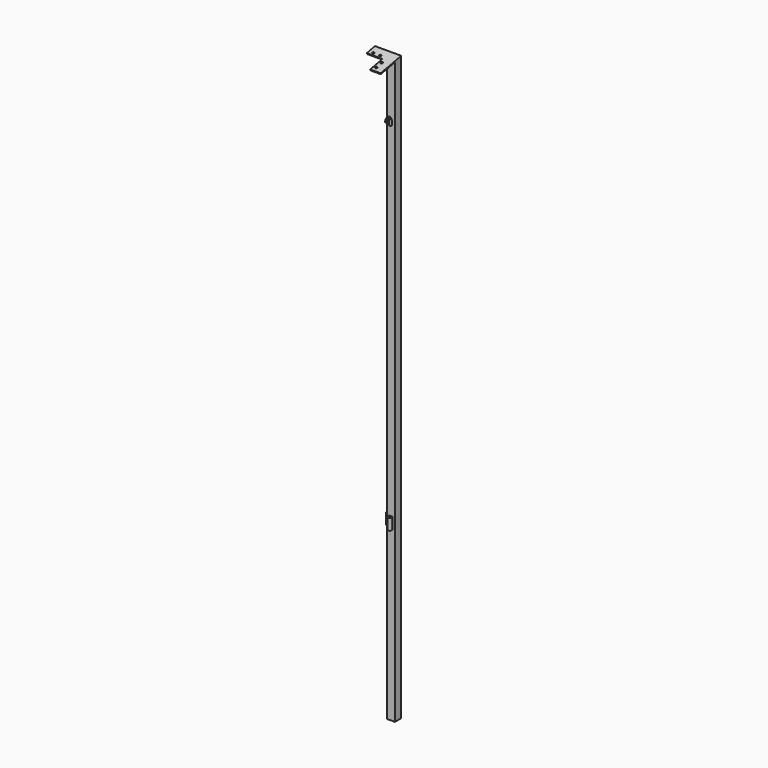
from build123d import *

# Parameters (mm, degrees)
F0_W      = 45
F0_H      = 45
F1_DEPTH  = 3330
F4_DEPTH  = 5
F7_W      = 45
F7_H      = 45.842251273
F8_DEPTH  = 25
F9_W      = 60
F9_H      = 60
F9_W_2    = 90
F9_H_2    = 90
F10_DEPTH = 5
F11_R     = 6
F12_DEPTH = 25
F13_W     = 150
F13_H     = 4.7702248844
F14_DEPTH = 3358.6871623993
F15_R     = 8
F16_DEPTH = 60
F20_DEPTH = 109
F21_DEPTH = 30


with BuildPart() as f1:
    # F0 (on Top) → F1 (new body)
    with BuildSketch(Plane.XY):
        Rectangle(F0_W, F0_H)
    extrude(amount=F1_DEPTH)

    # F3 (on offset) → F4 (join)
    with BuildSketch(Plane.XY.offset(965)):
        Polygon((2, -22.5), (0, -22.5), (0, -32.5), (2, -32.5), (2, -22.7020410289), align=None)
        Polygon((0, -32.5), (0, -22.5), (-2, -22.5), (-2, -22.7020410289), (-2, -32.5), align=None)
        with BuildLine():
            Line((2, -32.5), (0, -32.5))
            Line((0, -32.5), (-2, -32.5))
            Line((-2, -32.5), (-10, -32.5))
            ThreePointArc((-10, -32.5), (0, -42.5), (10, -32.5))
            Line((10, -32.5), (2, -32.5))
        make_face()
        with BuildLine():
            Line((-32.5, 0), (-22.5, 0))
            ThreePointArc((-22.5, 0), (-25.4289321881, 7.0710678119), (-32.5, 10))
            Line((-32.5, 10), (-32.5, 0))
        make_face()
        with BuildLine():
            Line((-32.5, -10), (-32.5, 0))
            Line((-32.5, 0), (-32.5, 10))
            ThreePointArc((-32.5, 10), (-42.5, 0), (-32.5, -10))
        make_face()
        with BuildLine():
            ThreePointArc((-32.5, -10), (-25.4289321881, -7.0710678119), (-22.5, 0))
            Line((-22.5, 0), (-32.5, 0))
            Line((-32.5, 0), (-32.5, -10))
        make_face()
        with BuildLine():
            Line((2, -22.7020410289), (2, -32.5))
            Line((2, -32.5), (10, -32.5))
            ThreePointArc((10, -32.5), (7.7459666924, -26.1754446797), (2, -22.7020410289))
        make_face()
        with BuildLine():
            Line((10, -22.5), (2, -22.5))
            Line((2, -22.5), (2, -22.7020410289))
            ThreePointArc((2, -22.7020410289), (7.7459666924, -26.1754446797), (10, -32.5))
            Line((10, -32.5), (10, -22.5))
        make_face()
        with BuildLine():
            Line((-10, -32.5), (-2, -32.5))
            Line((-2, -32.5), (-2, -22.7020410289))
            ThreePointArc((-2, -22.7020410289), (-7.7459666924, -26.1754446797), (-10, -32.5))
        make_face()
        with BuildLine():
            Line((-2, -22.7020410289), (-2, -22.5))
            Line((-2, -22.5), (-10, -22.5))
            Line((-10, -22.5), (-10, -32.5))
            ThreePointArc((-10, -32.5), (-7.7459666924, -26.1754446797), (-2, -22.7020410289))
        make_face()
        with BuildLine():
            Line((-22.5, -10), (-22.5, 0))
            ThreePointArc((-22.5, 0), (-25.4289321881, -7.0710678119), (-32.5, -10))
            Line((-32.5, -10), (-22.5, -10))
        make_face()
        with BuildLine():
            ThreePointArc((-32.5, 10), (-25.4289321881, 7.0710678119), (-22.5, 0))
            Line((-22.5, 0), (-22.5, 10))
            Line((-22.5, 10), (-32.5, 10))
        make_face()
    extrude(amount=F4_DEPTH)

    # F7 (on face) → F8 (join)
    with BuildSketch(Plane(origin=(0, -624.5391596736, 3212.9754420296), x_dir=(1, 0, 0), z_dir=(0, 0.1908089954, -0.9816271834))):
        with Locations((0, -636.2284686128)):
            Rectangle(F7_W, F7_H)
    extrude(amount=F8_DEPTH)

    # F9 (on face) → F10 (join)
    with BuildSketch(Plane(origin=(0, -624.5391596736, 3212.9754420296), x_dir=(1, 0, 0), z_dir=(0, 0.1908089954, -0.9816271834))):
        with Locations((-7.5, -629.1495942493)):
            Rectangle(F9_W, F9_H)
        with Locations((-82.5, -629.1495942493)):
            Rectangle(F9_W_2, F9_H)
        with Locations((-7.5, -554.1495942493)):
            Rectangle(F9_W, F9_H_2)
    extrude(amount=F10_DEPTH)

    # F11 (on face) → F12 (cut)
    with BuildSketch(Plane(origin=(0, -624.5391596736, 3212.9754420296), x_dir=(1, 0, 0), z_dir=(0, -0.1908089954, 0.9816271834))):
        with Locations((-22.5, 534.1495942493)):
            Circle(F11_R)
        with Locations((-22.5, 574.1495942493)):
            Circle(F11_R)
        with Locations((-62.5, 614.1495942493)):
            Circle(F11_R)
        with Locations((-102.5, 614.1495942493)):
            Circle(F11_R)
    extrude(amount=-F12_DEPTH, mode=Mode.SUBTRACT)

    # F13 (on Top) → F14 (cut)
    with BuildSketch(Plane.XY):
        with Locations((52.5, 24.8851124422)):
            Rectangle(F13_W, F13_H)
    extrude(amount=F14_DEPTH, mode=Mode.SUBTRACT)

    # F15 (on face) → F16 (join)
    with BuildSketch(Plane.XY.offset(970)):
        with BuildLine():
            ThreePointArc((-32.5, -10), (-25.4289321881, -7.0710678119), (-22.5, 0))
            ThreePointArc((-22.5, 0), (-25.4289321881, 7.0710678119), (-32.5, 10))
            ThreePointArc((-32.5, 10), (-42.5, 0), (-32.5, -10))
        make_face()
        with Locations((-32.5, 0)):
            Circle(F15_R, mode=Mode.SUBTRACT)
        with BuildLine():
            Line((-22.5, -10), (-22.5, 0))
            ThreePointArc((-22.5, 0), (-25.4289321881, -7.0710678119), (-32.5, -10))
            Line((-32.5, -10), (-22.5, -10))
        make_face()
        with BuildLine():
            ThreePointArc((-32.5, 10), (-25.4289321881, 7.0710678119), (-22.5, 0))
            Line((-22.5, 0), (-22.5, 10))
            Line((-22.5, 10), (-32.5, 10))
        make_face()
        with BuildLine():
            ThreePointArc((10, -32.5), (7.0710678119, -25.4289321881), (0, -22.5))
            ThreePointArc((0, -22.5), (-7.0710678119, -25.4289321881), (-10, -32.5))
            ThreePointArc((-10, -32.5), (0, -42.5), (10, -32.5))
        make_face()
        with BuildLine():
            ThreePointArc((8, -32.5), (0, -40.5), (-8, -32.5))
            ThreePointArc((-8, -32.5), (-5.6568542495, -26.8431457505), (0, -24.5))
            ThreePointArc((0, -24.5), (5.6568542495, -26.8431457505), (8, -32.5))
        make_face(mode=Mode.SUBTRACT)
        with BuildLine():
            ThreePointArc((-10, -32.5), (-7.0710678119, -25.4289321881), (0, -22.5))
            Line((0, -22.5), (-10, -22.5))
            Line((-10, -22.5), (-10, -32.5))
        make_face()
        with BuildLine():
            Line((10, -22.5), (0, -22.5))
            ThreePointArc((0, -22.5), (7.0710678119, -25.4289321881), (10, -32.5))
            Line((10, -32.5), (10, -22.5))
        make_face()
    extrude(amount=F16_DEPTH)

    # F19 (on face) → F20 (cut)
    with BuildSketch(Plane.YZ.offset(-22.5)):
        Polygon((22.5, 3333.6535304364), (23.4540449769, 3333.838977994), (22.5, 3338.7471139112), align=None)
    extrude(amount=-F20_DEPTH, mode=Mode.SUBTRACT)

    # F18 (on offset) → F21 (join)
    with BuildSketch(Plane.XY.offset(3000)):
        with BuildLine():
            ThreePointArc((5, -27.5), (3.5355339059, -23.9644660941), (0, -22.5))
            Line((0, -22.5), (0, -27.5))
            Line((0, -27.5), (5, -27.5))
        make_face()
        with BuildLine():
            Line((5, -22.5), (0, -22.5))
            ThreePointArc((0, -22.5), (3.5355339059, -23.9644660941), (5, -27.5))
            Line((5, -27.5), (5, -22.5))
        make_face()
        with BuildLine():
            Line((0, -27.5), (0, -22.5))
            ThreePointArc((0, -22.5), (-3.5355339059, -23.9644660941), (-5, -27.5))
            ThreePointArc((-5, -27.5), (0, -32.5), (5, -27.5))
            Line((5, -27.5), (0, -27.5))
        make_face()
        with BuildLine():
            ThreePointArc((-5, -27.5), (-3.5355339059, -23.9644660941), (0, -22.5))
            Line((0, -22.5), (-5, -22.5))
            Line((-5, -22.5), (-5, -27.5))
        make_face()
    extrude(amount=F21_DEPTH)

    # F24: sweep along a path in F23
    with BuildLine(Plane.YZ) as f24_path:
        ThreePointArc((-27.5, 3030), (-42.5, 3045), (-57.5, 3030))
    # F22 (on face) → F24 (sweep)
    with BuildSketch(Plane.XY.offset(3030)):
        with BuildLine():
            ThreePointArc((0, -22.5), (-3.5355339059, -23.9644660941), (-5, -27.5))
            ThreePointArc((-5, -27.5), (0, -32.5), (5, -27.5))
            ThreePointArc((5, -27.5), (3.5355339059, -23.9644660941), (0, -22.5))
        make_face()
    sweep(path=f24_path.line)


solid = f1.part
